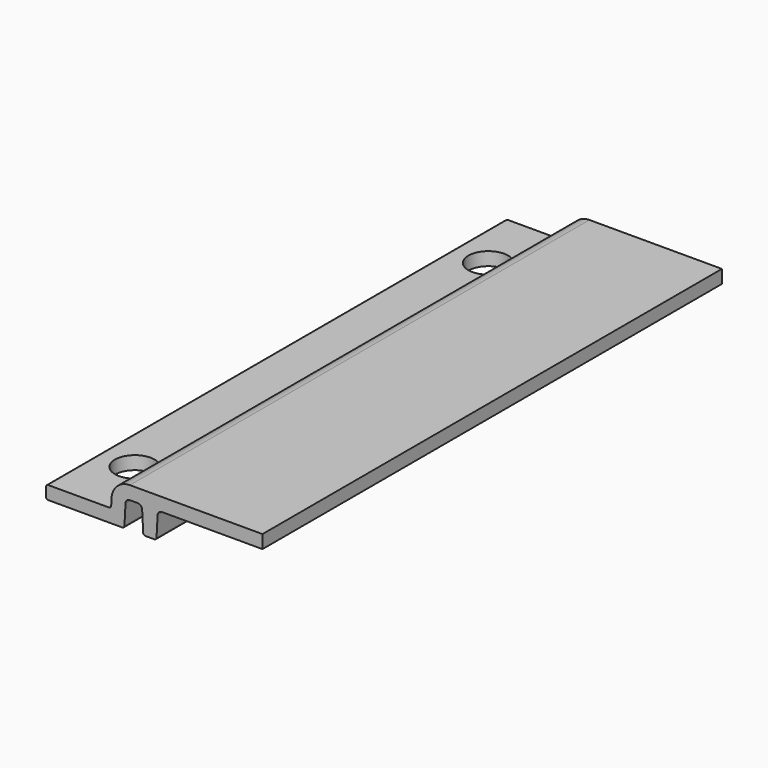
from build123d import *

# Parameters (mm, degrees)
F1_DEPTH = 130
F3_D     = 9
F4_D     = 9


with BuildPart() as f1:
    # F0 (on Front) → F1 (new body)
    with BuildSketch(Plane.XZ):
        with BuildLine():
            Line((48.978579, 9), (18.978579, 9))
            ThreePointArc((18.978579, 9), (16.111115, 7.855998), (14.818609, 5.052336))
            Line((14.818609, 5.052336), (14.735883, 3.473832))
            ThreePointArc((14.735883, 3.473832), (14.580745, 3.137313), (14.236568, 3))
            Line((14.236568, 3), (0.5, 3))
            ThreePointArc((0.5, 3), (0.146447, 2.853553), (0, 2.5))
            Line((0, 2.5), (0, 0.5))
            ThreePointArc((0, 0.5), (0.146447, 0.146447), (0.5, 0))
            Line((0.5, 0), (17.240685, 0))
            ThreePointArc((17.240685, 0), (17.584863, 0.137313), (17.74, 0.473832))
            Line((17.74, 0.473832), (17.979949, 5.052336))
            ThreePointArc((17.979949, 5.052336), (18.290224, 5.725374), (18.978579, 6))
            Line((18.978579, 6), (20.74132, 6))
            ThreePointArc((20.74132, 6), (21.429674, 5.725374), (21.739949, 5.052336))
            Line((21.739949, 5.052336), (21.979898, 0.473832))
            ThreePointArc((21.979898, 0.473832), (22.135036, 0.137313), (22.479213, 0))
            Line((22.479213, 0), (24.500685, 0))
            ThreePointArc((24.500685, 0), (24.844863, 0.137313), (25, 0.473832))
            Line((25, 0.473832), (25.239949, 5.052336))
            ThreePointArc((25.239949, 5.052336), (25.550224, 5.725374), (26.238579, 6))
            Line((26.238579, 6), (48.978579, 6))
            Line((48.978579, 6), (48.978579, 9))
        make_face()
    extrude(amount=F1_DEPTH)

    # F3 (through all)
    with Locations(Plane.XY.offset(3)):
        with Locations((8.1, -15)):
            Hole(F3_D / 2)

    # F4 (through all)
    with Locations(Plane.XY.offset(3)):
        with Locations((8.1, -115)):
            Hole(F4_D / 2)


solid = f1.part
